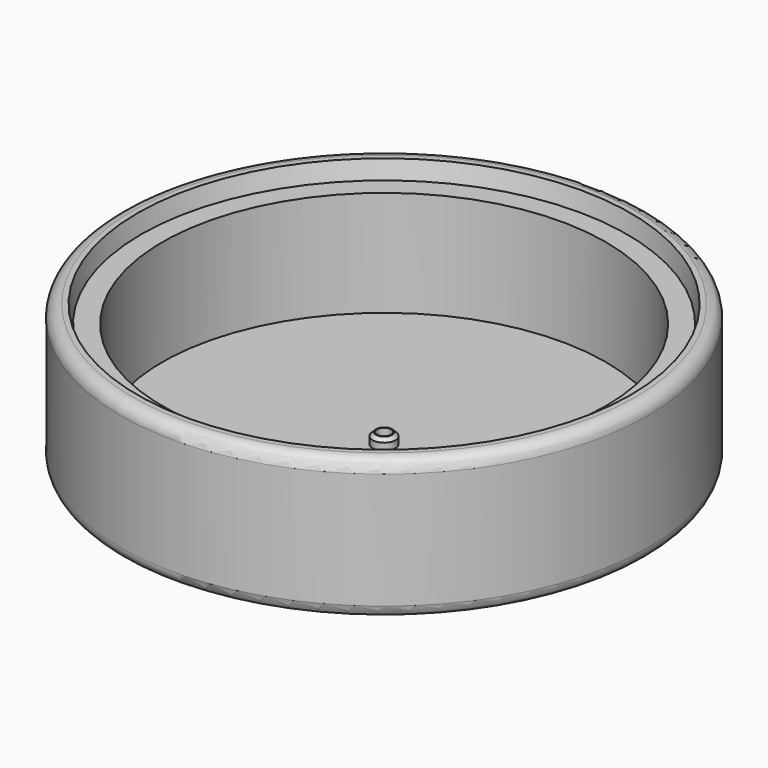
from build123d import *

# Parameters (mm, degrees)
CYLINDER006_R     = 14
CYLINDER006_DEPTH = 1
CYLINDER005_R     = 0.4
CYLINDER005_DEPTH = 1
CYLINDER001_R     = 12.6
CYLINDER001_DEPTH = 8
CYLINDER_R        = 15
CYLINDER_DEPTH    = 8
CYLINDER002_R     = 15
CYLINDER002_DEPTH = 1
FILLET_R          = 0.7
FILLET001_R       = 0.7
FILLET002_R       = 0.8
CYLINDER004_R     = 0.4
CYLINDER004_DEPTH = 0.6
CYLINDER003_R     = 0.65
CYLINDER003_DEPTH = 0.6
CHAMFER_SIZE      = 0.2
CYLINDER007_R     = 14
CYLINDER007_DEPTH = 1


with BuildPart() as cylinder006:
    # Cylinder006 → Cylinder006 (new body)
    with BuildSketch(Plane.XY.offset(7)):
        Circle(CYLINDER006_R)
    extrude(amount=CYLINDER006_DEPTH)


with BuildPart() as cylinder005:
    # Cylinder005 → Cylinder005 (new body)
    with BuildSketch(Plane.XY):
        Circle(CYLINDER005_R)
    extrude(amount=CYLINDER005_DEPTH)


with BuildPart() as cylinder001:
    # Cylinder001 → Cylinder001 (new body)
    with BuildSketch(Plane.XY):
        Circle(CYLINDER001_R)
    extrude(amount=CYLINDER001_DEPTH)


with BuildPart() as cut:
    # Cylinder → Cylinder (new body)
    with BuildSketch(Plane.XY):
        Circle(CYLINDER_R)
    extrude(amount=CYLINDER_DEPTH)

    # Cut: cut Cylinder001
    add(cylinder001.part, mode=Mode.SUBTRACT)


with BuildPart() as fillet002:
    # Cylinder002 → Cylinder002 (new body)
    with BuildSketch(Plane.XY):
        Circle(CYLINDER002_R)
    extrude(amount=CYLINDER002_DEPTH)

    # Fusion: union Cut
    add(cut.part)

    # Cut001: cut Cylinder005
    add(cylinder005.part, mode=Mode.SUBTRACT)

    # Cut003: cut Cylinder006
    add(cylinder006.part, mode=Mode.SUBTRACT)

    # Fillet
    fillet_edges = [fillet002.edges().sort_by_distance(p)[0] for p in [
        (-15, 0, 8),
    ]]
    fillet(fillet_edges, radius=FILLET_R)

    # Fillet001
    fillet001_edges = [fillet002.edges().sort_by_distance(p)[0] for p in [
        (-15, 0, 0),
    ]]
    fillet(fillet001_edges, radius=FILLET001_R)

    # Fillet002
    fillet002_edges = [fillet002.edges().sort_by_distance(p)[0] for p in [
        (-0.4, 0, 0),
    ]]
    fillet(fillet002_edges, radius=FILLET002_R)


with BuildPart() as cylinder004:
    # Cylinder004 → Cylinder004 (new body)
    with BuildSketch(Plane.XY.offset(1)):
        Circle(CYLINDER004_R)
    extrude(amount=CYLINDER004_DEPTH)


with BuildPart() as chamfer_body:
    # Cylinder003 → Cylinder003 (new body)
    with BuildSketch(Plane.XY.offset(1)):
        Circle(CYLINDER003_R)
    extrude(amount=CYLINDER003_DEPTH)

    # Cut002: cut Cylinder004
    add(cylinder004.part, mode=Mode.SUBTRACT)

    # Chamfer
    chamfer_edges = [chamfer_body.edges().sort_by_distance(p)[0] for p in [
        (-0.65, 0, 1.6),
    ]]
    chamfer(chamfer_edges, length=CHAMFER_SIZE)


with BuildPart() as cone:
    # Cone → Cone (revolve)
    with BuildSketch(Plane(origin=(0, 0, 7), x_dir=(1, 0, 0), z_dir=(0, -1, 0))):
        Polygon((0, 0), (13.8, 0), (14, 1), (0, 1), align=None)
    revolve(axis=Axis((0, 0, 7), (0, 0, 1)))


with BuildPart() as fusion001:
    # Cylinder007 → Cylinder007 (new body)
    with BuildSketch(Plane.XY.offset(7)):
        Circle(CYLINDER007_R)
    extrude(amount=CYLINDER007_DEPTH)

    # Cut004: cut Cone
    add(cone.part, mode=Mode.SUBTRACT)

    # Fusion001: union Fillet002, Chamfer body
    add(fillet002.part)
    add(chamfer_body.part)


solid = fusion001.part
